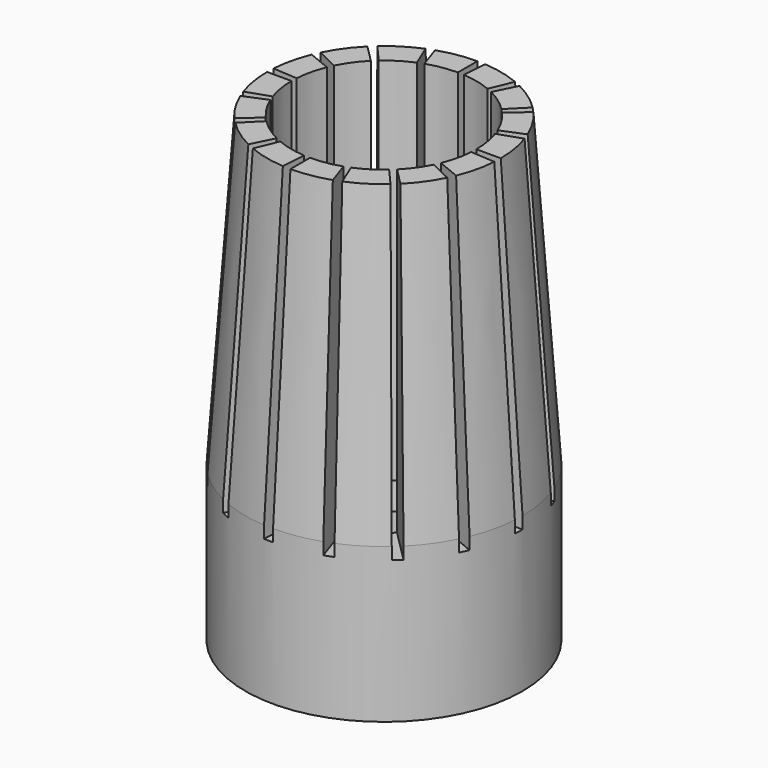
from build123d import *

# Parameters (mm, degrees)
F0_R      = 19.05
F1_DEPTH  = 63.5
F3_R      = 12.7
F4_DEPTH  = 50.8
F6_DEPTH  = 43.942
F7_R      = 3.125
F8_DEPTH  = 53.594
F10_DEPTH = 5.5


with BuildPart() as f1:
    # F0 (on Top) → F1 (new body)
    with BuildSketch(Plane.XY):
        Circle(F0_R)
    extrude(amount=F1_DEPTH)

    # F3 (on face) → F4 (cut)
    with BuildSketch(Plane.XY.offset(63.5)):
        Circle(F3_R)
    extrude(amount=-F4_DEPTH, mode=Mode.SUBTRACT)

    # F5 (on face) → F6 (cut)
    with BuildSketch(Plane.XY.offset(63.5)):
        Polygon((0, 38.1), (0, 0), (2.54, 38.1), align=None)
        Polygon((-14.580239, 35.19981), (0, 0), (-12.233585, 36.171826), align=None)
        Polygon((-26.940768, 26.940768), (0, 0), (-25.144717, 28.73682), align=None)
        Polygon((-35.19981, 14.580239), (0, 0), (-34.227794, 16.926893), align=None)
        Polygon((-38.1, 0), (0, 0), (-38.1, 2.54), align=None)
        Polygon((-35.19981, -14.580239), (0, 0), (-36.171826, -12.233585), align=None)
        Polygon((-26.940768, -26.940768), (0, 0), (-28.73682, -25.144717), align=None)
        Polygon((-14.580239, -35.19981), (0, 0), (-16.926893, -34.227794), align=None)
        Polygon((0, -38.1), (0, 0), (-2.54, -38.1), align=None)
        Polygon((14.580239, -35.19981), (0, 0), (12.233585, -36.171826), align=None)
        Polygon((26.940768, -26.940768), (0, 0), (25.144717, -28.73682), align=None)
        Polygon((35.19981, -14.580239), (0, 0), (34.227794, -16.926893), align=None)
        Polygon((38.1, 0), (0, 0), (38.1, -2.54), align=None)
        Polygon((35.19981, 14.580239), (0, 0), (36.171826, 12.233585), align=None)
        Polygon((26.940768, 26.940768), (0, 0), (28.73682, 25.144717), align=None)
        Polygon((14.580239, 35.19981), (0, 0), (16.926893, 34.227794), align=None)
    extrude(amount=-F6_DEPTH, mode=Mode.SUBTRACT)

    # F7 (on face) → F8 (cut)
    with BuildSketch(Plane.XY.offset(12.7)):
        Circle(F7_R)
    extrude(amount=-F8_DEPTH, mode=Mode.SUBTRACT)

    # F9 (on face) → F10 (cut)
    with BuildSketch(Plane.XY.offset(12.7)):
        Polygon((0.699814, -6.341222), (5.841566, -2.564554), (5.141752, 3.776668), (-0.699814, 6.341222), (-5.841566, 2.564554), (-5.141752, -3.776668), align=None)
    extrude(amount=-F10_DEPTH, mode=Mode.SUBTRACT)

    # F11 (on Right) → F12 (revolve, cut)
    with BuildSketch(Plane.YZ):
        Polygon((-16.030312, 63.901735), (-19.12548, 63.898501), (-19.12548, 20.142671), align=None)
    revolve(axis=Axis((0, 0, -11.778668), (0, 0, -1)), mode=Mode.SUBTRACT)


solid = f1.part
